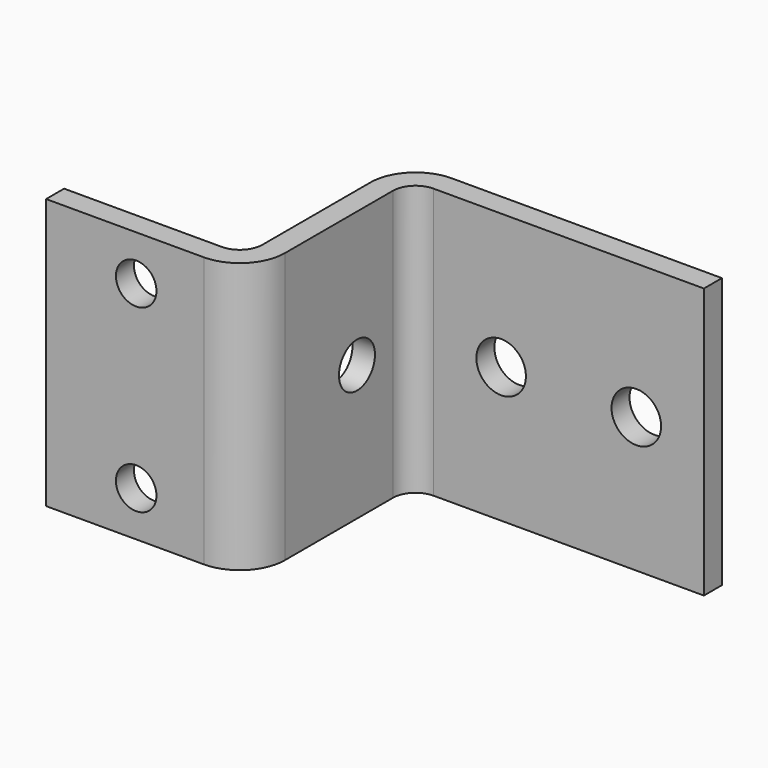
from build123d import *

# Parameters (mm, degrees)
F1_DEPTH  = 60
F2_DEPTH  = 60
F3_R      = 4.5
F4_DEPTH  = 25
F5_R      = 5.5
F6_DEPTH  = 25
F7_R      = 5
F8_DEPTH  = 25
F9_DEPTH  = 25
F10_DEPTH = 25
F11_DEPTH = 25


with BuildPart() as f1:
    # F0 (on Top) → F1 (new body)
    with BuildSketch(Plane.XY):
        with BuildLine():
            Line((-16.958092, -29.138289), (-51.958092, -29.138289))
            Line((-51.958092, -29.138289), (-51.958092, -34.138289))
            Line((-51.958092, -34.138289), (-16.958092, -34.138289))
            ThreePointArc((-16.958092, -34.138289), (-9.887024, -31.209357), (-6.958092, -24.138289))
            Line((-6.958092, -24.138289), (-6.958092, 5.861711))
            ThreePointArc((-6.958092, 5.861711), (-5.493625, 9.397245), (-1.958092, 10.861711))
            Line((-1.958092, 10.861711), (58.041908, 10.861711))
            Line((58.041908, 10.861711), (58.041908, 15.861711))
            Line((58.041908, 15.861711), (-1.958092, 15.861711))
            ThreePointArc((-1.958092, 15.861711), (-9.029159, 12.932778), (-11.958092, 5.861711))
            Line((-11.958092, 5.861711), (-11.958092, -24.138289))
            ThreePointArc((-11.958092, -24.138289), (-13.422558, -27.673823), (-16.958092, -29.138289))
        make_face()
    extrude(amount=F1_DEPTH)

    # F0 (on Top) → F2 (join)
    with BuildSketch(Plane.XY):
        with BuildLine():
            Line((-16.958092, -29.138289), (-51.958092, -29.138289))
            Line((-51.958092, -29.138289), (-51.958092, -34.138289))
            Line((-51.958092, -34.138289), (-16.958092, -34.138289))
            ThreePointArc((-16.958092, -34.138289), (-9.887024, -31.209357), (-6.958092, -24.138289))
            Line((-6.958092, -24.138289), (-6.958092, 5.861711))
            ThreePointArc((-6.958092, 5.861711), (-5.493625, 9.397245), (-1.958092, 10.861711))
            Line((-1.958092, 10.861711), (58.041908, 10.861711))
            Line((58.041908, 10.861711), (58.041908, 15.861711))
            Line((58.041908, 15.861711), (-1.958092, 15.861711))
            ThreePointArc((-1.958092, 15.861711), (-9.029159, 12.932778), (-11.958092, 5.861711))
            Line((-11.958092, 5.861711), (-11.958092, -24.138289))
            ThreePointArc((-11.958092, -24.138289), (-13.422558, -27.673823), (-16.958092, -29.138289))
        make_face()
    extrude(amount=F2_DEPTH)

    # F3 (on face) → F4 (cut)
    with BuildSketch(Plane(origin=(0, -29.138289, 0), x_dir=(-1, 0, 0), z_dir=(0, 1, 0))):
        with Locations((31.958092, 10)):
            Circle(F3_R)
        with Locations((31.958092, 50)):
            Circle(F3_R)
    extrude(amount=-F4_DEPTH, mode=Mode.SUBTRACT)

    # F5 (on face) → F6 (cut)
    with BuildSketch(Plane(origin=(0, 15.861711, 0), x_dir=(-1, 0, 0), z_dir=(0, 1, 0))):
        with Locations((-13.041908, 30)):
            Circle(F5_R)
        with Locations((-43.041908, 30)):
            Circle(F5_R)
    extrude(amount=-F6_DEPTH, mode=Mode.SUBTRACT)

    # F7 (on face) → F8 (cut)
    with BuildSketch(Plane(origin=(-11.958092, 0, 0), x_dir=(0, -1, 0), z_dir=(-1, 0, 0))):
        with Locations((4.138289, 30)):
            Circle(F7_R)
    extrude(amount=-F8_DEPTH, mode=Mode.SUBTRACT)

    # F7 (on face) → F9 (cut)
    with BuildSketch(Plane(origin=(-11.958092, 0, 0), x_dir=(0, -1, 0), z_dir=(-1, 0, 0))):
        with Locations((4.138289, 30)):
            Circle(F7_R)
    extrude(amount=-F9_DEPTH, mode=Mode.SUBTRACT)

    # F7 (on face) → F10 (cut)
    with BuildSketch(Plane(origin=(-11.958092, 0, 0), x_dir=(0, -1, 0), z_dir=(-1, 0, 0))):
        with Locations((4.138289, 30)):
            Circle(F7_R)
    extrude(amount=-F10_DEPTH, mode=Mode.SUBTRACT)

    # F7 (on face) → F11 (cut)
    with BuildSketch(Plane(origin=(-11.958092, 0, 0), x_dir=(0, -1, 0), z_dir=(-1, 0, 0))):
        with Locations((4.138289, 30)):
            Circle(F7_R)
    extrude(amount=-F11_DEPTH, mode=Mode.SUBTRACT)


solid = f1.part
